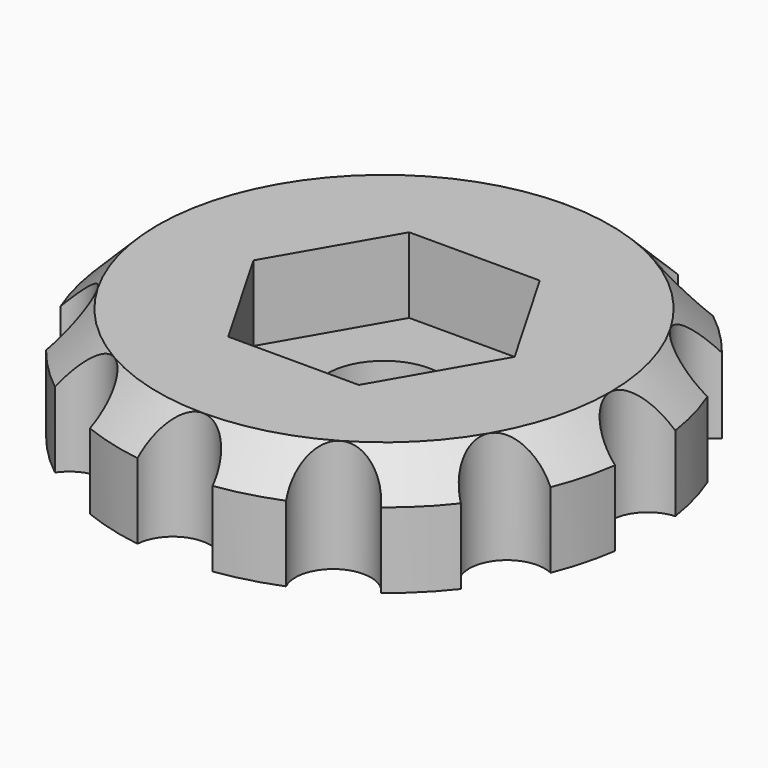
from build123d import *

# Parameters (mm, degrees)
CYLINDER028_R     = 1
CYLINDER028_DEPTH = 10
ARRAY_COUNT       = 12
CYLINDER027_R     = 1.5
CYLINDER027_DEPTH = 10
CYLINDER026_R     = 7
CYLINDER026_DEPTH = 3
POCKET009_DEPTH   = 2
CHAMFER010_SIZE   = 1


with BuildPart() as array:
    # Cylinder028 → Cylinder028 (new body)
    with BuildSketch(Plane(origin=(7, 0, -2), x_dir=(1, 0, 0), z_dir=(0, 0, 1))):
        Circle(CYLINDER028_R)
    extrude(amount=CYLINDER028_DEPTH)

    # Array: Array ×12 about axis
    array_axis = Axis((0, 0, 0), (0, 0, 1))


with BuildPart() as array_1:
    add(array.part)
    for i in range(1, ARRAY_COUNT):
        add(array.part.rotate(array_axis, i * 360 / ARRAY_COUNT))


with BuildPart() as cilindro019:
    # Cylinder027 → Cylinder027 (new body)
    with BuildSketch(Plane.XY.offset(-2)):
        Circle(CYLINDER027_R)
    extrude(amount=CYLINDER027_DEPTH)


with BuildPart() as cut013:
    # Cylinder026 → Cylinder026 (new body)
    with BuildSketch(Plane.XY):
        Circle(CYLINDER026_R)
    extrude(amount=CYLINDER026_DEPTH)

    # Sketch004 → Pocket009 (cut)
    with BuildSketch(Plane.XY.offset(3)):
        Polygon((-3.464093, 0), (-1.732049, 3), (1.732049, 3), (3.464093, 0), (1.732049, -3), (-1.732049, -3), align=None)
    extrude(amount=-POCKET009_DEPTH, mode=Mode.SUBTRACT)

    # Chamfer010
    chamfer010_edges = [cut013.edges().sort_by_distance(p)[0] for p in [
        (-7, 0, 3),
    ]]
    chamfer(chamfer010_edges, length=CHAMFER010_SIZE)

    # Cut012: cut Cilindro019
    add(cilindro019.part, mode=Mode.SUBTRACT)

    # Cut013: cut Array
    add(array_1.part, mode=Mode.SUBTRACT)


with BuildPart() as cut013_1:
    # Cut013 placement: moved
    add(cut013.part.moved(Location((58, 50, 157))))


solid = cut013_1.part
